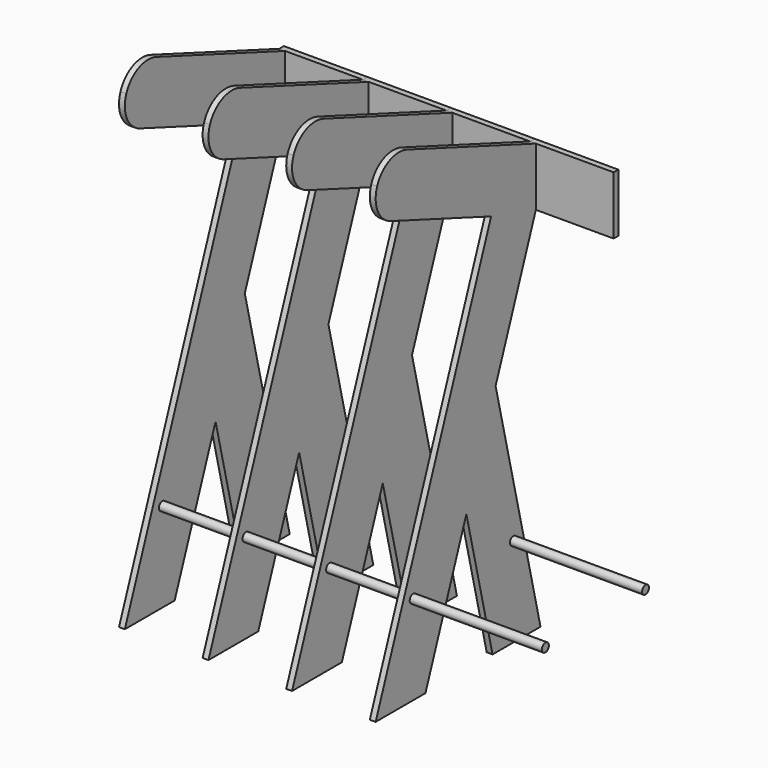
from build123d import *

# Parameters (mm, degrees)
F0_R     = 11.192301
F0_R_2   = 10.981409
F1_DEPTH = 15
F0_W     = 15
F0_H     = 150
F2_DEPTH = 215
F6_R     = 11.180582
F7_DEPTH = 1000
F8_R     = 11
F9_DEPTH = 1000


with BuildPart() as f1:
    # F0 (on Right) → F1 (new body)
    with BuildSketch(Plane.YZ):
        with BuildLine():
            ThreePointArc((-525.25804, 1210.546747), (-523.238059, 1153.179785), (-481.245148, 1114.043559))
            Line((-481.245148, 1114.043559), (-158.834839, 993.606008))
            Line((-158.834839, 993.606008), (-18.318758, 941.115712))
            Line((-18.318758, 941.115712), (-15, 950))
            Line((-15, 950), (-15, 1100))
            Line((-15, 1100), (-428.754852, 1254.559639))
            ThreePointArc((-428.754852, 1254.559639), (-486.121814, 1252.539658), (-525.25804, 1210.546747))
        make_face()
        Polygon((-18.318758, 941.115712), (-158.834839, 993.606008), (-530, 0), (-369.875977, 0), (-238.403473, 351.950785), (-144.374096, 603.666636), align=None)
        with Locations((-409.324765, 230)):
            Circle(F0_R, mode=Mode.SUBTRACT)
        Polygon((0, 0), (-144.374096, 603.666636), (-238.403473, 351.950785), (-154.230234, 0), align=None)
        with Locations((-87.324765, 230)):
            Circle(F0_R_2, mode=Mode.SUBTRACT)
    extrude(amount=F1_DEPTH)

    # F0 (on Right) → F2 (join)
    with BuildSketch(Plane.YZ):
        with Locations((-7.5, 1025)):
            Rectangle(F0_W, F0_H)
    extrude(amount=F2_DEPTH)


with BuildPart() as f3_1:
    # F3: copy of F1
    add(f1.part.moved(Location((215, 0, 0))))


with BuildPart() as f4_1:
    # F4: copy of F3_1
    add(f3_1.part.moved(Location((215, 0, 0))))


with BuildPart() as f5_1:
    # F5: copy of F4_1
    add(f4_1.part.moved(Location((215, 0, 0))))


with BuildPart() as f7:
    # F6 (on Right) → F7 (new body)
    with BuildSketch(Plane.YZ):
        with Locations((-409.324765, 230)):
            Circle(F6_R)
    extrude(amount=F7_DEPTH)


with BuildPart() as f9:
    # F8 (on Right) → F9 (new body)
    with BuildSketch(Plane.YZ):
        with Locations((-87.324765, 230)):
            Circle(F8_R)
    extrude(amount=F9_DEPTH)


solid = Compound([f1.part, f3_1.part, f4_1.part, f5_1.part, f7.part, f9.part])
